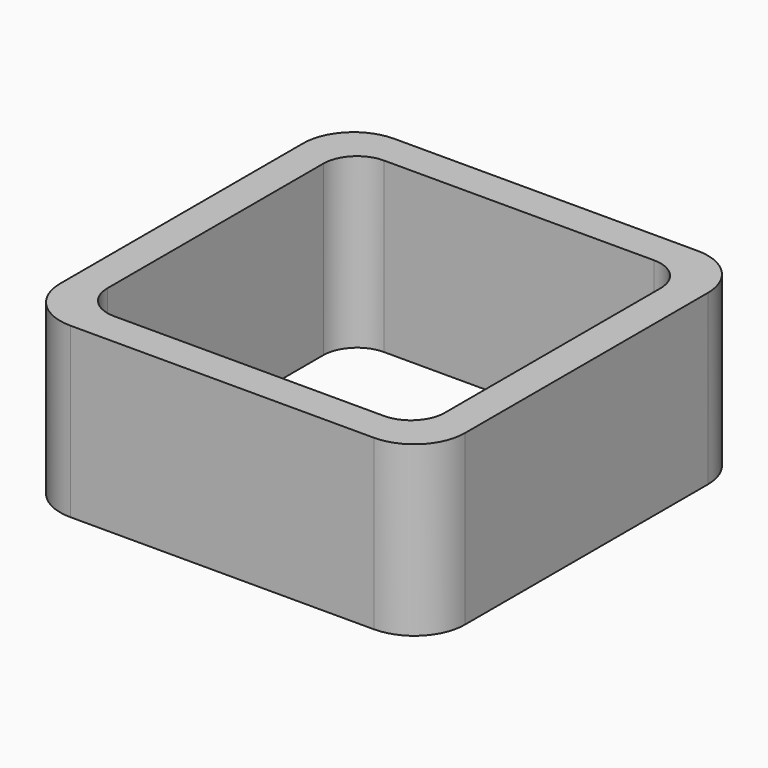
from build123d import *

# Parameters (mm, degrees)
EXTRUDE_DEPTH = 50


with BuildPart() as part:
    # Sketch → Extrude (new body)
    with BuildSketch(Plane.XY):
        with BuildLine():
            Line((-45, 60), (45, 60))
            ThreePointArc((60, 45), (55.606602, 55.606602), (45, 60))
            Line((60, 45), (60, -45))
            ThreePointArc((45, -60), (55.606602, -55.606602), (60, -45))
            Line((45, -60), (-45, -60))
            ThreePointArc((-60, -45), (-55.606602, -55.606602), (-45, -60))
            Line((-60, -45), (-60, 45))
            ThreePointArc((-45, 60), (-55.606602, 55.606602), (-60, 45))
        make_face()
        with BuildLine():
            Line((-40, 50), (40, 50))
            ThreePointArc((50, 40), (47.071068, 47.071068), (40, 50))
            Line((50, 40), (50, -40))
            ThreePointArc((40, -50), (47.071068, -47.071068), (50, -40))
            Line((40, -50), (-40, -50))
            ThreePointArc((-50, -40), (-47.071068, -47.071068), (-40, -50))
            Line((-50, -40), (-50, 40))
            ThreePointArc((-40, 50), (-47.071068, 47.071068), (-50, 40))
        make_face(mode=Mode.SUBTRACT)
    extrude(amount=EXTRUDE_DEPTH)


solid = part.part
